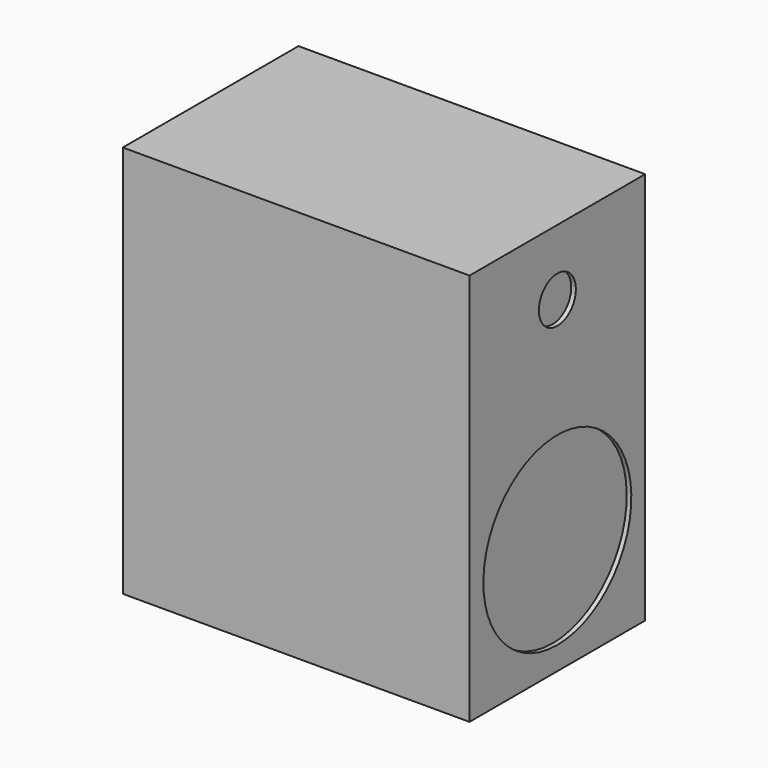
from build123d import *

# Parameters (mm, degrees)
CYLINDER003_R     = 20
CYLINDER003_DEPTH = 10
CYLINDER002_R     = 80
CYLINDER002_DEPTH = 10
BOX006_W          = 300
BOX006_H          = 190
BOX006_DEPTH      = 340


with BuildPart() as cylinder003:
    # Cylinder003 → Cylinder003 (new body)
    with BuildSketch(Plane(origin=(296, 95, 1133), x_dir=(0, 0, -1), z_dir=(1, 0, 0))):
        Circle(CYLINDER003_R)
    extrude(amount=CYLINDER003_DEPTH)


with BuildPart() as cylinder002:
    # Cylinder002 → Cylinder002 (new body)
    with BuildSketch(Plane(origin=(296, 95, 950), x_dir=(0, 0, -1), z_dir=(1, 0, 0))):
        Circle(CYLINDER002_R)
    extrude(amount=CYLINDER002_DEPTH)


with BuildPart() as speaker002:
    # Box006 → Box006 (new body)
    with BuildSketch(Plane.XY.offset(850)):
        with Locations((150, 95)):
            Rectangle(BOX006_W, BOX006_H)
    extrude(amount=BOX006_DEPTH)

    # Cut003: cut Cylinder002
    add(cylinder002.part, mode=Mode.SUBTRACT)

    # Cut002: cut Cylinder003
    add(cylinder003.part, mode=Mode.SUBTRACT)


with BuildPart() as speaker002_1:
    # Cut002 placement: moved
    add(speaker002.part.moved(Location((30, 85, -154))))


solid = speaker002_1.part
